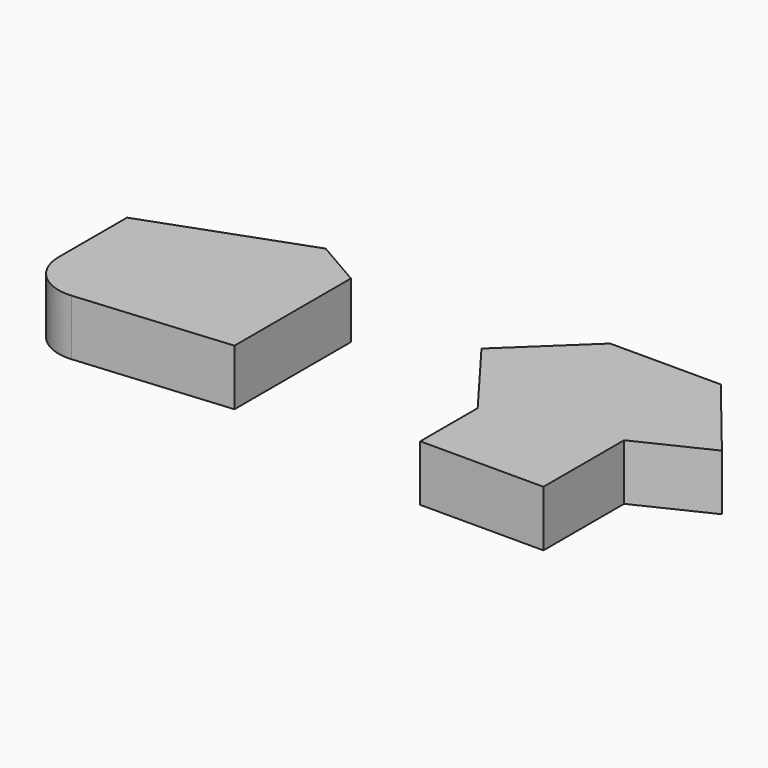
from build123d import *

# Parameters (mm, degrees)
F2_DEPTH = 25
F3_DEPTH = 25


with BuildPart() as f2:
    # F1 (on Top) → F2 (new body)
    with BuildSketch(Plane.XY):
        with BuildLine():
            Line((-127.722544, 24.999546), (-196.408233, 0))
            Line((-196.408233, 0), (-196.408233, -38.161615))
            ThreePointArc((-196.408233, -38.161615), (-189.915928, -52.910927), (-174.654014, -58.084535))
            Line((-174.654014, -58.084535), (-106.755096, -52.106016))
            Line((-106.755096, -52.106016), (-106.755096, 12.893984))
            Line((-106.755096, 12.893984), (-127.722544, 24.999546))
        make_face()
    extrude(amount=F2_DEPTH)


with BuildPart() as f3:
    # F0 (on Top) → F3 (new body)
    with BuildSketch(Plane.XY):
        Polygon((-11.093298, -35.954055), (-11.093298, -67.998836), (43.906702, -67.998836), (43.906702, -22.998836), (75.446395, -7.824918), (43.906702, 30.972606), (-5.509423, 30.972606), (-38.154449, 0), align=None)
    extrude(amount=F3_DEPTH)


solid = Compound([f2.part, f3.part])
